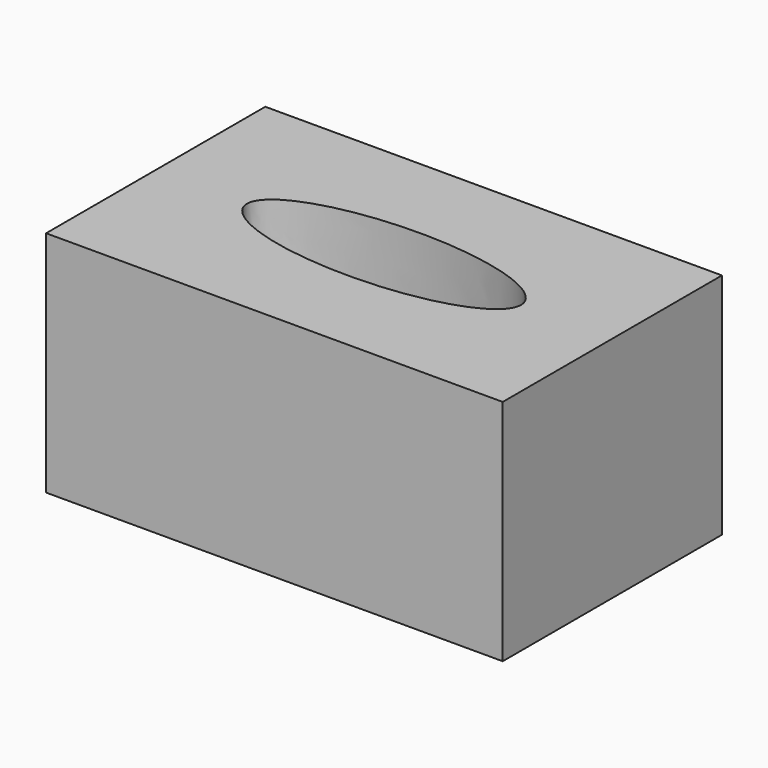
from build123d import *

# Parameters (mm, degrees)
F0_W     = 50
F0_H     = 30
F1_DEPTH = 25


with BuildPart() as f1:
    # F0 (on Top) → F1 (new body)
    with BuildSketch(Plane.XY):
        Rectangle(F0_W, F0_H)
        with BuildLine():
            add(Edge.make_bspline(
                [(-15, 0), (-15, -8.660254), (7.5, -4.330127), (30, 0), (7.5, 4.330127), (-15, 8.660254), (-15, 0)],
                knots=[0, 0, 0, 2.094395, 2.094395, 4.18879, 4.18879, 6.283185, 6.283185, 6.283185], degree=2, weights=[1, 0.5, 1, 0.5, 1, 0.5, 1]))
        make_face(mode=Mode.SUBTRACT)
    extrude(amount=F1_DEPTH)


solid = f1.part
